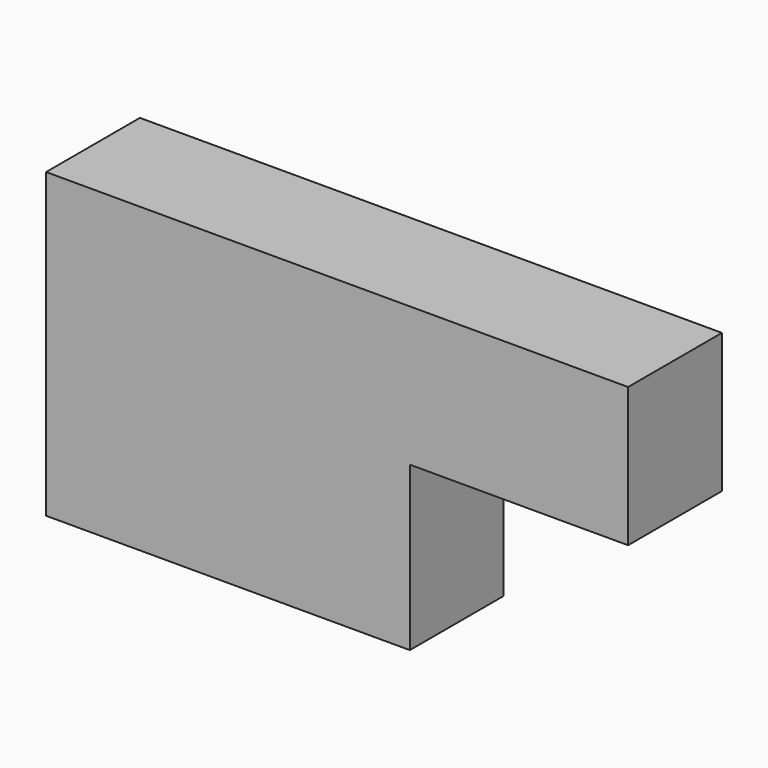
from build123d import *

# Parameters (mm, degrees)
F1_DEPTH = 25


with BuildPart() as f1:
    # F0 (on Front) → F1 (new body)
    with BuildSketch(Plane.XZ):
        Polygon((2.144598, 50.810475), (-75.390868, 50.810475), (-75.390868, -13.692434), (2.144598, -13.692434), (2.144598, 21.116043), (48.665877, 21.116043), (48.665877, 50.810475), align=None)
        Polygon((2.144598, 50.810475), (-75.390868, 50.810475), (-75.390868, -13.692434), (2.144598, -13.692434), (2.144598, 21.116043), (48.665877, 21.116043), (48.665877, 50.810475), align=None)
    extrude(amount=F1_DEPTH)


solid = f1.part
